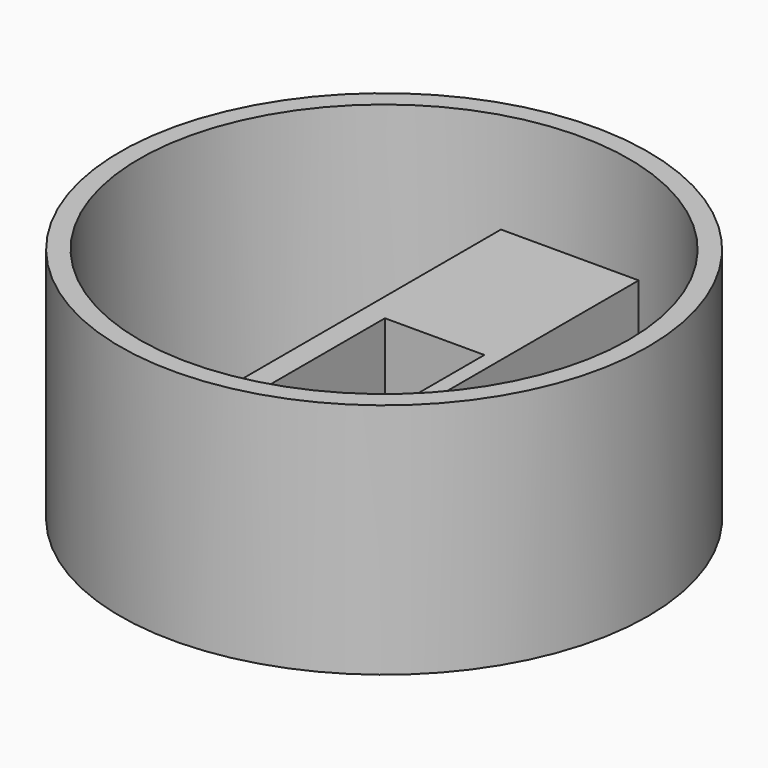
from build123d import *

# Parameters (mm, degrees)
F0_R     = 34.5
F1_DEPTH = 31
F2_R     = 32
F3_DEPTH = 32
F4_W     = 18
F4_H     = 60.597103
F5_DEPTH = 18
F6_W     = 13
F6_H     = 9
F7_DEPTH = 25
F8_W     = 13
F8_H     = 23.931491
F9_DEPTH = 25


with BuildPart() as f1:
    # F0 (on Top) → F1 (new body)
    with BuildSketch(Plane.XY):
        Circle(F0_R)
    extrude(amount=F1_DEPTH)

    # F2 (on face) → F3 (cut)
    with BuildSketch(Plane.XY.offset(31)):
        Circle(F2_R)
    extrude(amount=-F3_DEPTH, mode=Mode.SUBTRACT)


with BuildPart() as f5:
    # F4 (on Top) → F5 (new body)
    with BuildSketch(Plane.XY):
        with Locations((-0.012131, 0.058142)):
            Rectangle(F4_W, F4_H)
    extrude(amount=F5_DEPTH)

    # F6 (on face) → F7 (cut)
    with BuildSketch(Plane(origin=(0, 0, 0), x_dir=(1, 0, 0), z_dir=(0, 0, -1))):
        with Locations((0.487869, 25.74041)):
            Rectangle(F6_W, F6_H)
    extrude(amount=-F7_DEPTH, mode=Mode.SUBTRACT)

    # F8 (on face) → F9 (cut)
    with BuildSketch(Plane(origin=(0, 0, 0), x_dir=(1, 0, 0), z_dir=(0, 0, -1))):
        with Locations((0.487869, 4.318765)):
            Rectangle(F8_W, F8_H)
    extrude(amount=-F9_DEPTH, mode=Mode.SUBTRACT)


solid = Compound([f1.part, f5.part])
